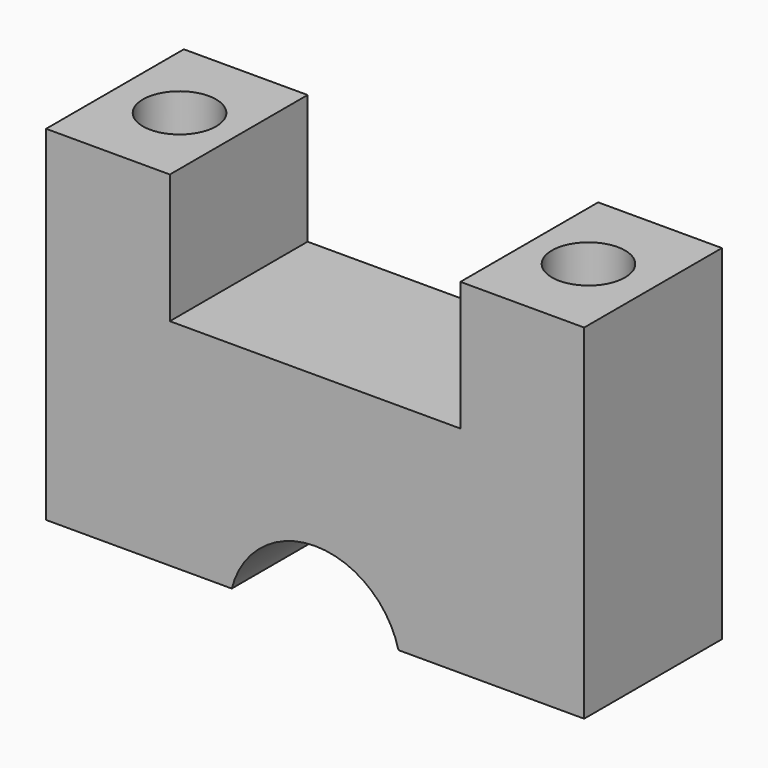
from build123d import *

# Parameters (mm, degrees)
SKETCH_W     = 25
SKETCH_H     = 8
SKETCH_R     = 1.7
PAD_DEPTH    = 10
SKETCH002_R  = 4
POCKET_DEPTH = 8.001
SKETCH003_W  = 5.75
SKETCH003_H  = 8
SKETCH003_R  = 1.7
PAD001_DEPTH = 6


with BuildPart() as part:
    # Sketch → Pad (new body)
    with BuildSketch(Plane.XY):
        with Locations((9.5, 0)):
            Rectangle(SKETCH_W, SKETCH_H)
        Circle(SKETCH_R, mode=Mode.SUBTRACT)
        with Locations((19, 0)):
            Circle(SKETCH_R, mode=Mode.SUBTRACT)
    extrude(amount=PAD_DEPTH)

    # Sketch002 → Pocket (cut, through all)
    with BuildSketch(Plane.XZ.offset(4)):
        with Locations((9.5, -1)):
            Circle(SKETCH002_R)
    extrude(amount=-POCKET_DEPTH, mode=Mode.SUBTRACT)

    # Sketch003 → Pad001 (new body)
    with BuildSketch(Plane.XY.offset(10)):
        with Locations((-0.125, 0)):
            Rectangle(SKETCH003_W, SKETCH003_H)
        Circle(SKETCH003_R, mode=Mode.SUBTRACT)
        with Locations((19.125, 0)):
            Rectangle(SKETCH003_W, SKETCH003_H)
        with Locations((19, 0)):
            Circle(SKETCH003_R, mode=Mode.SUBTRACT)
    extrude(amount=PAD001_DEPTH)


solid = part.part
